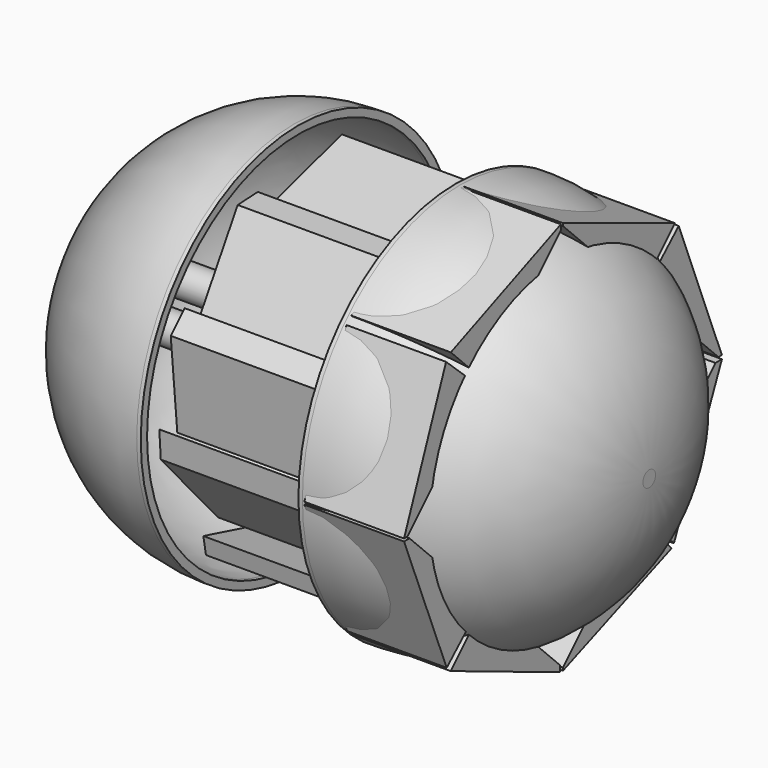
from build123d import *

# Parameters (mm, degrees)
F0_R          = 63.5
F1_DEPTH      = 62.24945
F2_R          = 60.96
F3_T          = -2.54
F5_DEPTH      = 50.8
F5_DEPTH_BACK = 13.64568
F7_START      = 2.32923
F7_DEPTH      = 32.11037
F8_R          = 63.5
F9_DEPTH      = 62.2554
F10_R         = 60.96
F11_T         = -2.54
F13_DEPTH     = 64.67676
F14_R         = 5.08
F14_2_R       = 5.08


with BuildPart() as f1:
    # F0 (on Right) → F1 (new body)
    with BuildSketch(Plane.YZ):
        Circle(F0_R)
    extrude(amount=F1_DEPTH)

    # F2
    f2_edges = [f1.edges().sort_by_distance(p)[0] for p in [
        (62.24945, -63.5, 0),
    ]]
    fillet(f2_edges, radius=F2_R)

    # F3
    f3_openings = [f1.faces().sort_by_distance(p)[0] for p in [
        (0, 0, 0),
    ]]
    offset(amount=F3_T, openings=f3_openings)


with BuildPart() as f5:
    # F4 (on Right) → F5 (new body, two sides)
    with BuildSketch(Plane.YZ) as f5_sk:
        Polygon((-12.2779998928, -54.0258996189), (0, -56.0381636024), (27.318008244, -42.0982576907), align=None)
    extrude(amount=-F5_DEPTH)
    extrude(f5_sk.sketch, amount=F5_DEPTH_BACK)


with BuildPart() as f5b:
    # F4 (on Right) → F5, piece 2 (new body, two sides)
    with BuildSketch(Plane.YZ) as f5_2_sk:
        Polygon((26.4493785799, -48.795837909), (31.8828113377, -46.9619706273), (47.5382730365, -20.5004774034), align=None)
    extrude(amount=-F5_DEPTH)
    extrude(f5_2_sk.sketch, amount=F5_DEPTH_BACK)


with BuildPart() as f5c:
    # F4 (on Right) → F5, piece 3 (new body, two sides)
    with BuildSketch(Plane.YZ) as f5_3_sk:
        Polygon((54.8039674759, 0), (57.2355017066, 5.0882892683), (40.709707886, 22.2628358752), align=None)
    extrude(amount=-F5_DEPTH)
    extrude(f5_3_sk.sketch, amount=F5_DEPTH_BACK)


with BuildPart() as f5d:
    # F4 (on Right) → F5, piece 4 (new body, two sides)
    with BuildSketch(Plane.YZ) as f5_4_sk:
        Polygon((45.5096811056, 23.9293668419), (48.1954142451, 28.621762991), (17.884682864, 43.3531589806), align=None)
    extrude(amount=-F5_DEPTH)
    extrude(f5_4_sk.sketch, amount=F5_DEPTH_BACK)


with BuildPart() as f5e:
    # F4 (on Right) → F5, piece 5 (new body, two sides)
    with BuildSketch(Plane.YZ) as f5_5_sk:
        Polygon((17.4675732851, 53.8366436958), (-16.9960986823, 43.6473637819), (22.3015490919, 49.163594842), align=None)
    extrude(amount=-F5_DEPTH)
    extrude(f5_5_sk.sketch, amount=F5_DEPTH_BACK)


with BuildPart() as f5f:
    # F4 (on Right) → F5, piece 6 (new body, two sides)
    with BuildSketch(Plane.YZ) as f5_6_sk:
        Polygon((49.7148856521, 0), (50.1664020121, -27.1181967109), (53.7517331541, -19.3063598126), align=None)
    extrude(amount=-F5_DEPTH)
    extrude(f5_6_sk.sketch, amount=F5_DEPTH_BACK)


with BuildPart() as f5g:
    # F4 (on Right) → F5, piece 7 (new body, two sides)
    with BuildSketch(Plane.YZ) as f5_7_sk:
        Polygon((-16.3454543799, 51.2468442321), (-24.4541112334, 50.8350729942), (-42.9316759109, 20.0755931437), align=None)
    extrude(amount=-F5_DEPTH)
    extrude(f5_7_sk.sketch, amount=F5_DEPTH_BACK)


with BuildPart() as f5h:
    # F4 (on Right) → F5, piece 8 (new body, two sides)
    with BuildSketch(Plane.YZ) as f5_8_sk:
        Polygon((-45.8026230335, 30.2262138575), (-51.4272674918, 24.6791280806), (-48.7781465054, -3.8723812904), align=None)
    extrude(amount=-F5_DEPTH)
    extrude(f5_8_sk.sketch, amount=F5_DEPTH_BACK)


with BuildPart() as f5i:
    # F4 (on Right) → F5, piece 9 (new body, two sides)
    with BuildSketch(Plane.YZ) as f5_9_sk:
        Polygon((-32.4342508783, -34.5323896163), (-56.0246482491, 0), (-55.4331839085, -8.7939575315), align=None)
    extrude(amount=-F5_DEPTH)
    extrude(f5_9_sk.sketch, amount=F5_DEPTH_BACK)


with BuildPart() as f5j:
    # F4 (on Right) → F5, piece 10 (new body, two sides)
    with BuildSketch(Plane.YZ) as f5_10_sk:
        Polygon((-38.2842086256, -37.4709889293), (-37.2309498489, -43.2974100113), (0, -47.5588440895), align=None)
    extrude(amount=-F5_DEPTH)
    extrude(f5_10_sk.sketch, amount=F5_DEPTH_BACK)


with BuildPart() as f7:
    # F6 (on Right) → F7 (new body)
    with BuildSketch(Plane.YZ.offset(F7_START)):
        Polygon((30.3505084311, -32.2857986038), (0, -62.6363070349), (0, -63.5341182351), (43.7872794107, -46.5793608589), align=None)
    extrude(amount=F7_DEPTH)


with BuildPart() as f7b:
    # F6 (on Right) → F7, piece 2 (new body)
    with BuildSketch(Plane.YZ.offset(F7_START)):
        Polygon((-1.1820078661, -61.4542991688), (-31.3181535175, -31.3181535175), (-45.2366359532, -45.2366359532), (-1.1820078661, -63.4705200791), align=None)
    extrude(amount=F7_DEPTH)


with BuildPart() as f7c:
    # F6 (on Right) → F7, piece 3 (new body)
    with BuildSketch(Plane.YZ.offset(F7_START)):
        Polygon((-32.2857986038, -30.3505084311), (-61.7925937994, -0.8437132355), (-64.0052556992, -0.8437132355), (-46.8108020723, -43.6624735594), align=None)
    extrude(amount=F7_DEPTH)


with BuildPart() as f7d:
    # F6 (on Right) → F7, piece 4 (new body)
    with BuildSketch(Plane.YZ.offset(F7_START)):
        Polygon((61.4542991688, -1.1820078661), (31.3181535175, -31.3181535175), (44.7248327836, -45.5515347855), (64.0501007438, -1.1820078661), align=None)
    extrude(amount=F7_DEPTH)


with BuildPart() as f7e:
    # F6 (on Right) → F7, piece 5 (new body)
    with BuildSketch(Plane.YZ.offset(F7_START)):
        Polygon((32.2548656558, 30.3814413791), (62.6363070349, 0), (64.0300884843, 0), (46.6389618814, 43.704342097), align=None)
    extrude(amount=F7_DEPTH)


with BuildPart() as f7f:
    # F6 (on Right) → F7, piece 6 (new body)
    with BuildSketch(Plane.YZ.offset(F7_START)):
        Polygon((0, 63.4613260627), (0, 62.6363070349), (31.3181535175, 31.3181535175), (45.1201517135, 45.1201517135), align=None)
    extrude(amount=F7_DEPTH)


with BuildPart() as f7g:
    # F6 (on Right) → F7, piece 7 (new body)
    with BuildSketch(Plane.YZ.offset(F7_START)):
        Polygon((-45.1544858515, 45.1544858515), (-31.3181535175, 31.3181535175), (-0.8437132355, 61.7925937994), (-0.8437132355, 63.4613260627), align=None)
    extrude(amount=F7_DEPTH)


with BuildPart() as f7h:
    # F6 (on Right) → F7, piece 8 (new body)
    with BuildSketch(Plane.YZ.offset(F7_START)):
        Polygon((-64.0052556992, 0), (-62.6363070349, 0), (-32.6574540531, 29.9788529819), (-47.0654517412, 43.2435236871), align=None)
    extrude(amount=F7_DEPTH)


with BuildPart() as f9:
    # F8 (on face) → F9 (new body)
    with BuildSketch(Plane(origin=(-50.8, 0, 0), x_dir=(0, -1, 0), z_dir=(-1, 0, 0))):
        Circle(F8_R)
    extrude(amount=F9_DEPTH)

    # F10
    f10_edges = [f9.edges().sort_by_distance(p)[0] for p in [
        (-113.0554, 63.5, 0),
    ]]
    fillet(f10_edges, radius=F10_R)

    # F11
    f11_openings = [f9.faces().sort_by_distance(p)[0] for p in [
        (-50.8, 0, 0),
    ]]
    offset(amount=F11_T, openings=f11_openings)


with BuildPart() as f13:
    # F12 (on face) → F13 (new body)
    with BuildSketch(Plane(origin=(-50.8, 0, 0), x_dir=(0, -1, 0), z_dir=(-1, 0, 0))):
        with BuildLine():
            ThreePointArc((16.2231074956, 0), (11.1431074956, 5.08), (6.0631074956, 0))
            Line((6.0631074956, 0), (16.2231074956, 0))
        make_face()
        with BuildLine():
            Line((16.2231074956, 0), (6.0631074956, 0))
            ThreePointArc((6.0631074956, 0), (11.1431074956, -5.08), (16.2231074956, 0))
        make_face()
    extrude(amount=F13_DEPTH)

    # F14#2
    f14_2_edges = [f13.edges().sort_by_distance(p)[0] for p in [
        (-115.47676, -16.223107, 0),
    ]]
    fillet(f14_2_edges, radius=F14_2_R)


with BuildPart() as f13b:
    # F12 (on face) → F13, piece 2 (new body)
    with BuildSketch(Plane(origin=(-50.8, 0, 0), x_dir=(0, -1, 0), z_dir=(-1, 0, 0))):
        with BuildLine():
            ThreePointArc((-16.6140926485, 0), (-11.5340926485, -5.08), (-6.4540926485, 0))
            Line((-6.4540926485, 0), (-16.6140926485, 0))
        make_face()
        with BuildLine():
            Line((-16.6140926485, 0), (-6.4540926485, 0))
            ThreePointArc((-6.4540926485, 0), (-11.5340926485, 5.08), (-16.6140926485, 0))
        make_face()
    extrude(amount=F13_DEPTH)

    # F14
    f14_edges = [f13b.edges().sort_by_distance(p)[0] for p in [
        (-115.47676, 16.614093, 0),
    ]]
    fillet(f14_edges, radius=F14_R)


solid = Compound([f1.part, f5.part, f5b.part, f5c.part, f5d.part, f5e.part, f5f.part, f5g.part, f5h.part, f5i.part, f5j.part, f7.part, f7b.part, f7c.part, f7d.part, f7e.part, f7f.part, f7g.part, f7h.part, f9.part, f13.part, f13b.part])
